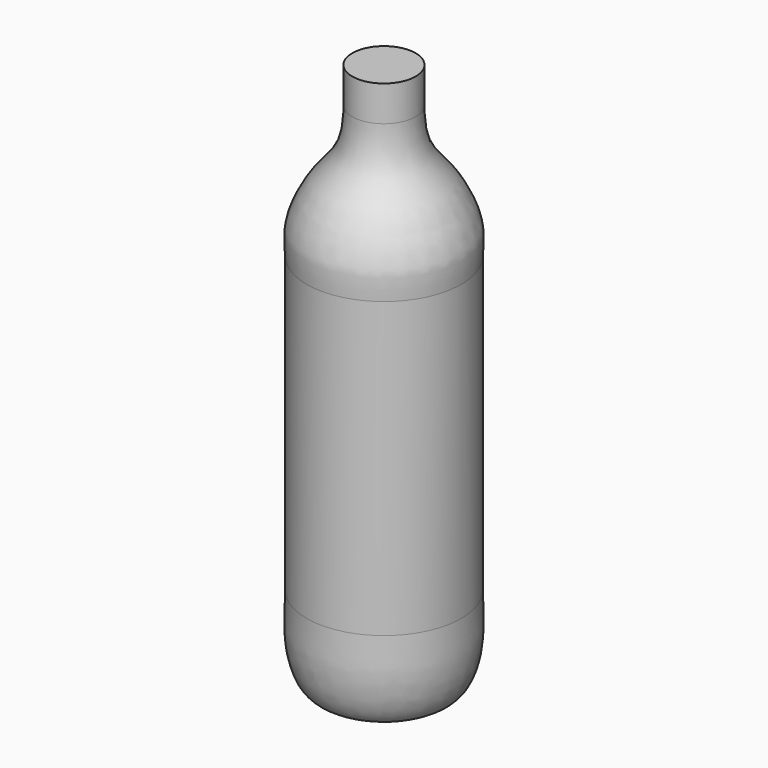
from build123d import *


with BuildPart() as f1:
    # F0 (on Front) → F1 (revolve)
    with BuildSketch(Plane.XZ):
        with BuildLine():
            Line((0, -5629.9028605461), (0, -232.4028605461))
            Line((0, -232.4028605461), (-317.5, -232.4028605461))
            Line((-317.5, -232.4028605461), (-317.5, -588.0028605461))
            add(Edge.make_bspline(
                [(-774.7, -1919.3129226379), (-774.7, -1850.7359798911), (-811.1946723318, -1648.1920029728), (-612.3523392478, -1234.9379290926), (-351.3433360648, -993.588671407), (-317.5, -753.7246640367), (-317.5, -588.0028605461)],
                knots=[0, 0, 0, 0, 0.2119318685, 0.49171367, 0.7359605744, 1, 1, 1, 1], degree=3))
            Line((-774.7, -1919.3129226379), (-774.7, -2935.3129226379))
            Line((-774.7, -2935.3129226379), (-774.7, -4867.7449226379))
            add(Edge.make_bspline(
                [(0, -5629.9028605461), (0, -5545.5647706717), (-270.6414393035, -5627.5320529783), (-364.6227877106, -5746.1024315079), (-663.7900853279, -5771.4527589855), (-806.3630763071, -5313.3278540622), (-774.7, -5017.7608585505), (-774.7, -4867.7449226379)],
                knots=[0, 0, 0, 0, 0.1753409478, 0.3369363058, 0.5097439353, 0.7479575769, 1, 1, 1, 1], degree=3))
        make_face()
    revolve(axis=Axis((0, 0, -2931.1528605461), (0, 0, -1)))


solid = f1.part
